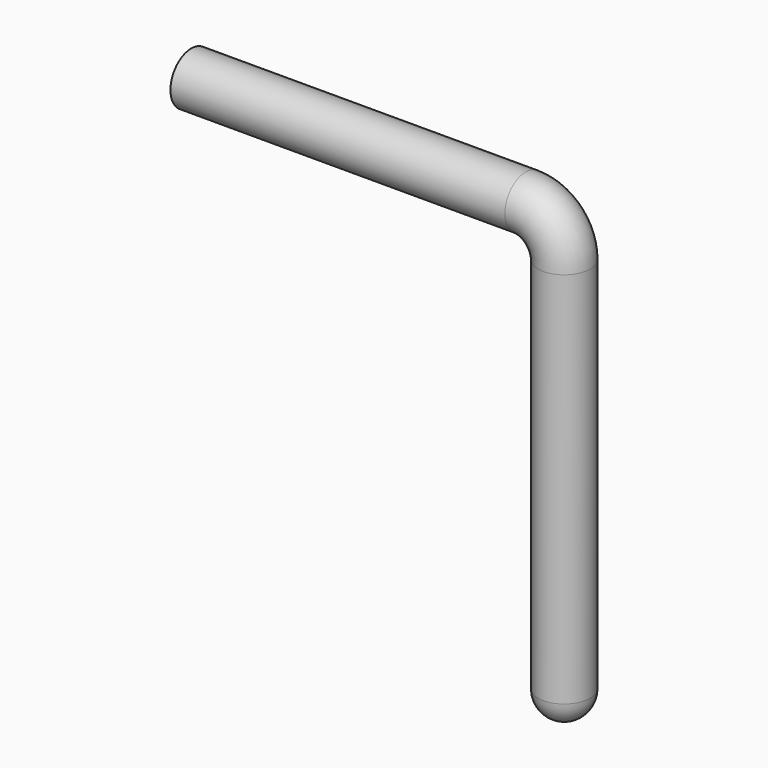
from build123d import *

# Parameters (mm, degrees)
F1_R = 4.7625
F3_R = 4.7625


with BuildPart() as f2:
    # F2: sweep along a path in F0
    with BuildLine(Plane.XZ) as f2_path:
        Line((0, 4.7625), (61.214, 4.7625))
        ThreePointArc((61.214, 4.7625), (66.1980421472, 2.6980421472), (68.2625, -2.286))
        Line((68.2625, -2.286), (68.2625, -76.2))
    # F1 (on Right) → F2 (sweep)
    with BuildSketch(Plane.YZ):
        with Locations((0, 4.7625)):
            Circle(F1_R)
    sweep(path=f2_path.line)

    # F3
    f3_edges = [f2.edges().sort_by_distance(p)[0] for p in [
        (68.2625, -4.7625, -76.2),
    ]]
    fillet(f3_edges, radius=F3_R)


solid = f2.part
